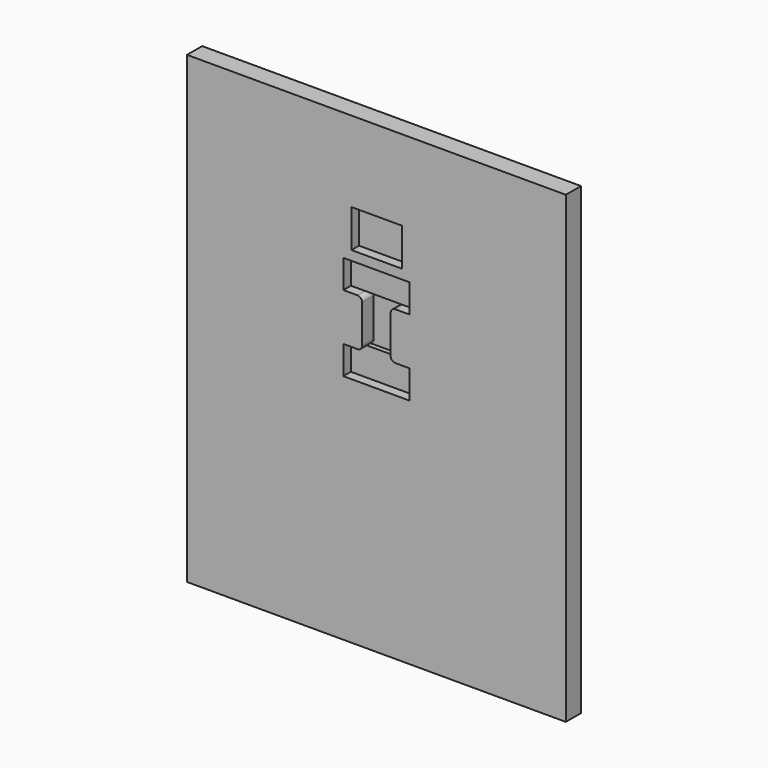
from build123d import *

# Parameters (mm, degrees)
F0_W     = 508
F0_H     = 622.3
F0_W_2   = 68
F0_H_2   = 50.8
F1_DEPTH = 25.4
F2_DEPTH = 12.7
F3_DEPTH = 6.35


with BuildPart() as f1:
    # F0 (on Front) → F1 (new body)
    with BuildSketch(Plane.XZ):
        with Locations((0, -2.179809)):
            Rectangle(F0_W, F0_H)
        with BuildLine():
            Line((-44.45, 99.420191), (-44.45, 137.520191))
            Line((-44.45, 137.520191), (44.45, 137.520191))
            Line((44.45, 137.520191), (44.45, 99.420191))
            Line((44.45, 99.420191), (25.4, 99.420191))
            ThreePointArc((25.4, 99.420191), (20.909872, 97.560319), (19.05, 93.070191))
            Line((19.05, 93.070191), (19.05, 42.270191))
            ThreePointArc((19.05, 42.270191), (20.909872, 37.780063), (25.4, 35.920191))
            Line((25.4, 35.920191), (44.45, 35.920191))
            Line((44.45, 35.920191), (44.45, -2.179809))
            Line((44.45, -2.179809), (-44.45, -2.179809))
            Line((-44.45, -2.179809), (-44.45, 35.920191))
            Line((-44.45, 35.920191), (-25.4, 35.920191))
            ThreePointArc((-25.4, 35.920191), (-20.909872, 37.780063), (-19.05, 42.270191))
            Line((-19.05, 42.270191), (-19.05, 93.070191))
            ThreePointArc((-19.05, 93.070191), (-20.909872, 97.560319), (-25.4, 99.420191))
            Line((-25.4, 99.420191), (-44.45, 99.420191))
        make_face(mode=Mode.SUBTRACT)
        with Locations((0.576081, 175.620191)):
            Rectangle(F0_W_2, F0_H_2, mode=Mode.SUBTRACT)
    extrude(amount=F1_DEPTH)

    # F0 (on Front) → F2 (join)
    with BuildSketch(Plane.XZ):
        with Locations((0.576081, 175.620191)):
            Rectangle(F0_W_2, F0_H_2)
        Polygon((44.45, 137.520191), (-44.45, 137.520191), (-44.45, 99.420191), (-25.4, 99.420191), (25.4, 99.420191), (44.45, 99.420191), align=None)
        Polygon((25.4, 35.920191), (-25.4, 35.920191), (-44.45, 35.920191), (-44.45, -2.179809), (44.45, -2.179809), (44.45, 35.920191), align=None)
    extrude(amount=F2_DEPTH)

    # F0 (on Front) → F3 (join)
    with BuildSketch(Plane.XZ):
        with BuildLine():
            Line((25.4, 99.420191), (-25.4, 99.420191))
            ThreePointArc((-25.4, 99.420191), (-20.909872, 97.560319), (-19.05, 93.070191))
            Line((-19.05, 93.070191), (-19.05, 42.270191))
            ThreePointArc((-19.05, 42.270191), (-20.909872, 37.780063), (-25.4, 35.920191))
            Line((-25.4, 35.920191), (25.4, 35.920191))
            ThreePointArc((25.4, 35.920191), (20.909872, 37.780063), (19.05, 42.270191))
            Line((19.05, 42.270191), (19.05, 93.070191))
            ThreePointArc((19.05, 93.070191), (20.909872, 97.560319), (25.4, 99.420191))
        make_face()
    extrude(amount=F3_DEPTH)


solid = f1.part
